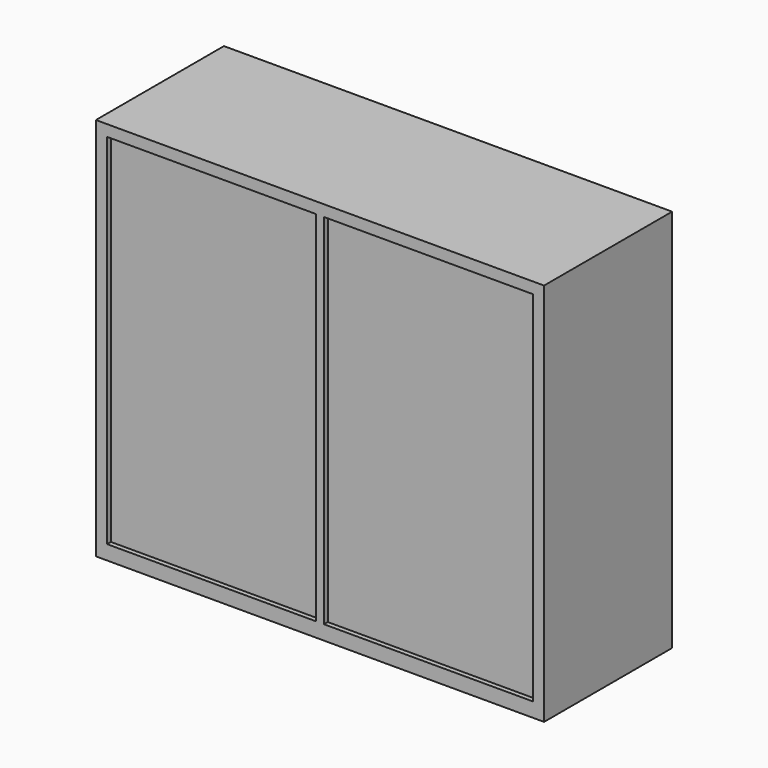
from build123d import *

# Parameters (mm, degrees)
F0_W     = 1400
F0_H     = 500
F1_DEPTH = 1200
F2_W     = 652.5
F2_H     = 1120
F3_DEPTH = 15


with BuildPart() as f1:
    # F0 (on Top) → F1 (new body)
    with BuildSketch(Plane.XY):
        Rectangle(F0_W, F0_H)
    extrude(amount=F1_DEPTH)

    # F2 (on face) → F3 (cut)
    with BuildSketch(Plane.XZ.offset(250)):
        with Locations((-338.75, 605)):
            Rectangle(F2_W, F2_H)
        with Locations((338.75, 605)):
            Rectangle(F2_W, F2_H)
    extrude(amount=-F3_DEPTH, mode=Mode.SUBTRACT)


solid = f1.part
